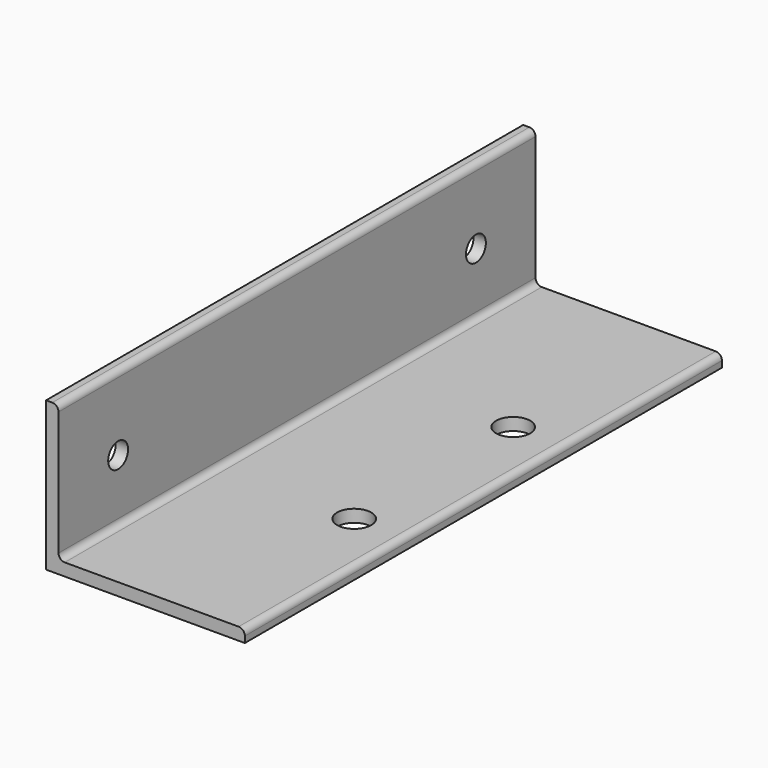
from build123d import *

# Parameters (mm, degrees)
F1_DEPTH = 152.4
F2_R     = 8.73125
F3_DEPTH = 76.201
F4_R     = 6.35
F5_DEPTH = 101.601


with BuildPart() as f1:
    # F0 (on Front) → F1 (new body, symmetric)
    with BuildSketch(Plane.XZ):
        with BuildLine():
            Line((3.175, 76.2), (0, 76.2))
            Line((0, 76.2), (0, 0))
            Line((0, 0), (101.6, 0))
            Line((101.6, 0), (101.6, 3.175))
            ThreePointArc((101.6, 3.175), (100.6700640303, 5.4200640303), (98.425, 6.35))
            Line((98.425, 6.35), (9.525, 6.35))
            ThreePointArc((9.525, 6.35), (7.2799359697, 7.2799359697), (6.35, 9.525))
            Line((6.35, 9.525), (6.35, 73.025))
            ThreePointArc((6.35, 73.025), (5.4200640303, 75.2700640303), (3.175, 76.2))
        make_face()
    extrude(amount=F1_DEPTH, both=True)

    # F2 (on face) → F3 (cut, through all)
    with BuildSketch(Plane(origin=(0, 0, 0), x_dir=(1, 0, 0), z_dir=(0, 0, -1))):
        with Locations((76.2, 50.8)):
            Circle(F2_R)
        with Locations((76.2, -50.8)):
            Circle(F2_R)
    extrude(amount=-F3_DEPTH, mode=Mode.SUBTRACT)

    # F4 (on face) → F5 (cut, through all)
    with BuildSketch(Plane(origin=(0, 0, 0), x_dir=(0, -1, 0), z_dir=(-1, 0, 0))):
        with Locations((-114.3, 38.1)):
            Circle(F4_R)
        with Locations((114.3, 38.1)):
            Circle(F4_R)
    extrude(amount=-F5_DEPTH, mode=Mode.SUBTRACT)


solid = f1.part
